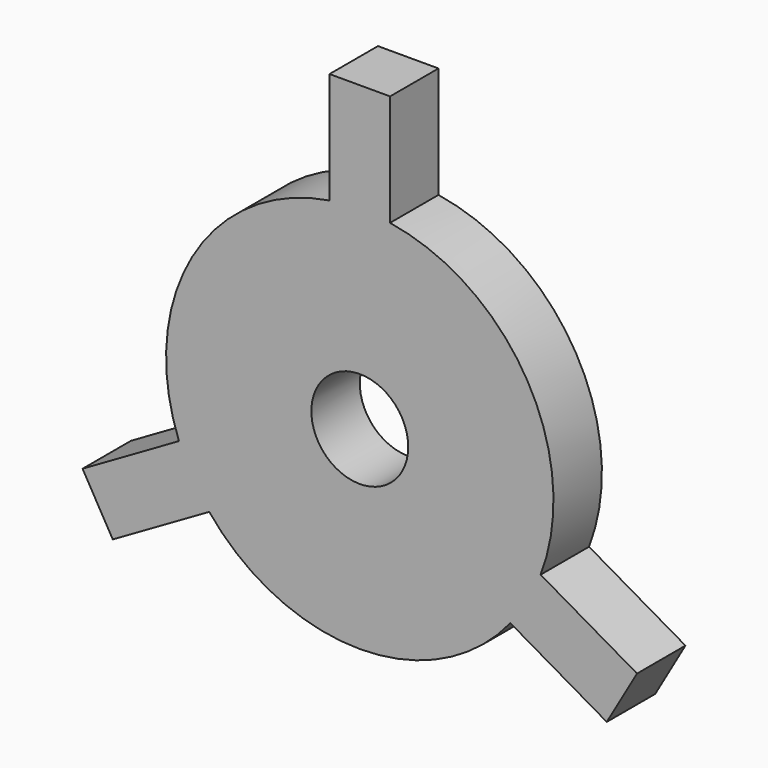
from build123d import *

# Parameters (mm, degrees)
F0_R     = 40
F1_DEPTH = 50


with BuildPart() as f1:
    # F0 (on Front) → F1 (new body)
    with BuildSketch(Plane.XZ):
        with BuildLine():
            Line((-25, 250), (-25, 158.034806))
            ThreePointArc((-25, 158.034806), (-138.564065, 80), (-149.362157, -57.366768))
            Line((-149.362157, -57.366768), (-229.006351, -103.349365))
            Line((-229.006351, -103.349365), (-204.006351, -146.650635))
            Line((-204.006351, -146.650635), (-124.362157, -100.668038))
            ThreePointArc((-124.362157, -100.668038), (0, -160), (124.362157, -100.668038))
            Line((124.362157, -100.668038), (204.006351, -146.650635))
            Line((204.006351, -146.650635), (229.006351, -103.349365))
            Line((229.006351, -103.349365), (149.362157, -57.366768))
            ThreePointArc((149.362157, -57.366768), (138.564065, 80), (25, 158.034806))
            Line((25, 158.034806), (25, 250))
            Line((25, 250), (-25, 250))
        make_face()
        Circle(F0_R, mode=Mode.SUBTRACT)
    extrude(amount=-F1_DEPTH)


solid = f1.part
